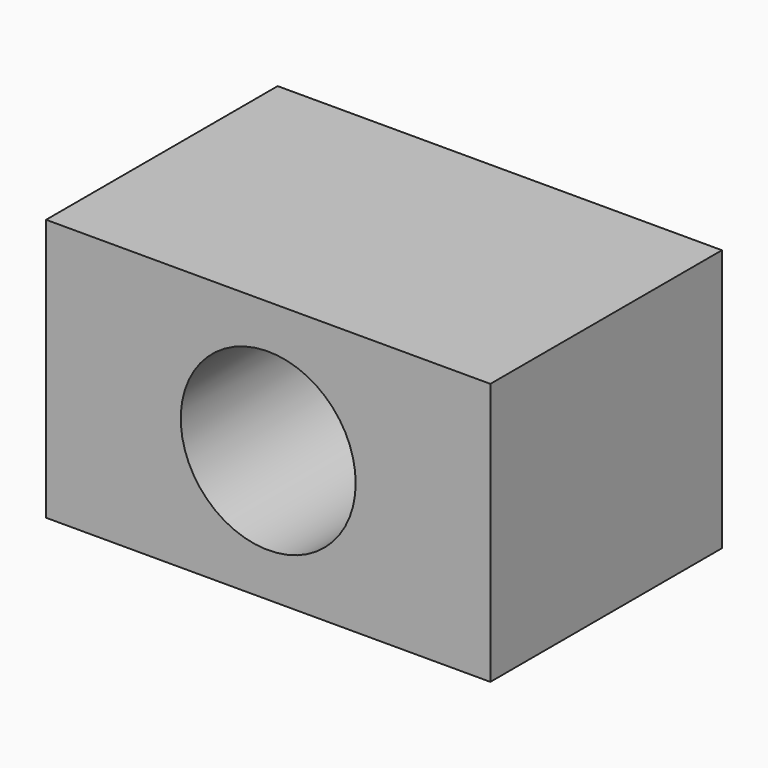
from build123d import *

# Parameters (mm, degrees)
F0_W     = 50.8
F0_H     = 30
F0_R     = 10
F1_DEPTH = 33.0962


with BuildPart() as f1:
    # F0 (on Front) → F1 (new body)
    with BuildSketch(Plane.XZ):
        Rectangle(F0_W, F0_H)
        Circle(F0_R, mode=Mode.SUBTRACT)
    extrude(amount=-F1_DEPTH)


solid = f1.part
